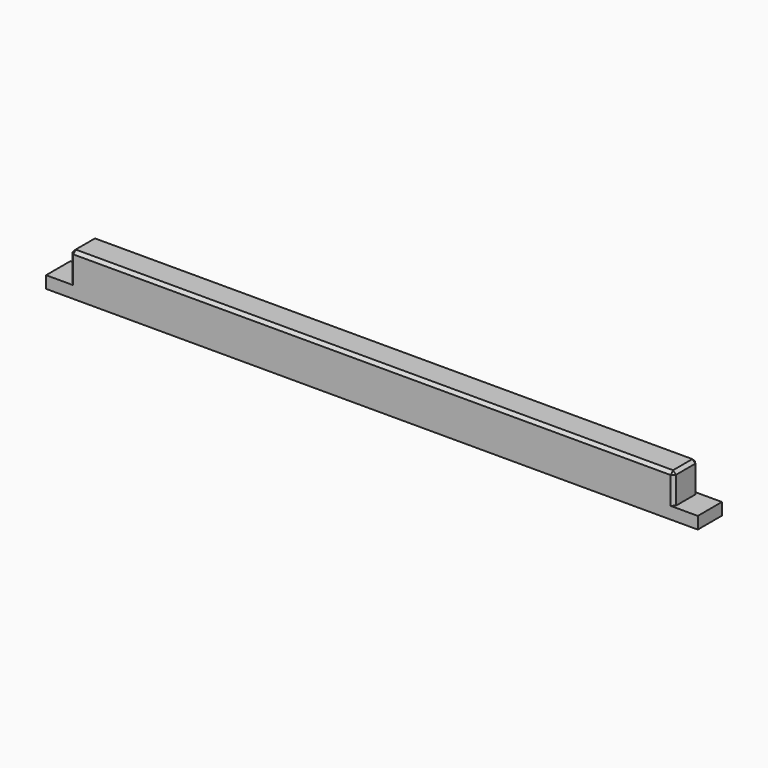
from build123d import *

# Parameters (mm, degrees)
F0_W     = 100
F0_H     = 5
F1_DEPTH = 5
F0_W_2   = 4
F2_DEPTH = 2
F3_SIZE  = 0.5


with BuildPart() as f1:
    # F0 (on Top) → F1 (new body)
    with BuildSketch(Plane.XY):
        with Locations((3.835353, 2.5)):
            Rectangle(F0_W, F0_H)
    extrude(amount=F1_DEPTH)

    # F0 (on Top) → F2 (join)
    with BuildSketch(Plane.XY):
        with Locations((-48.164647, 2.5)):
            Rectangle(F0_W_2, F0_H)
        with Locations((3.835353, 2.5)):
            Rectangle(F0_W, F0_H)
        with Locations((55.835353, 2.5)):
            Rectangle(F0_W_2, F0_H)
    extrude(amount=-F2_DEPTH)

    # F3
    f3_edges = [f1.edges().sort_by_distance(p)[0] for p in [
        (-46.164647, 2.5, 5),
        (3.835353, 0, 5),
        (53.835353, 2.5, 5),
        (3.835353, 5, 5),
        (53.835353, 5, 2.5),
        (53.835353, 0, 2.5),
        (-46.164647, 0, 2.5),
        (-46.164647, 5, 2.5),
    ]]
    chamfer(f3_edges, length=F3_SIZE)


solid = f1.part
